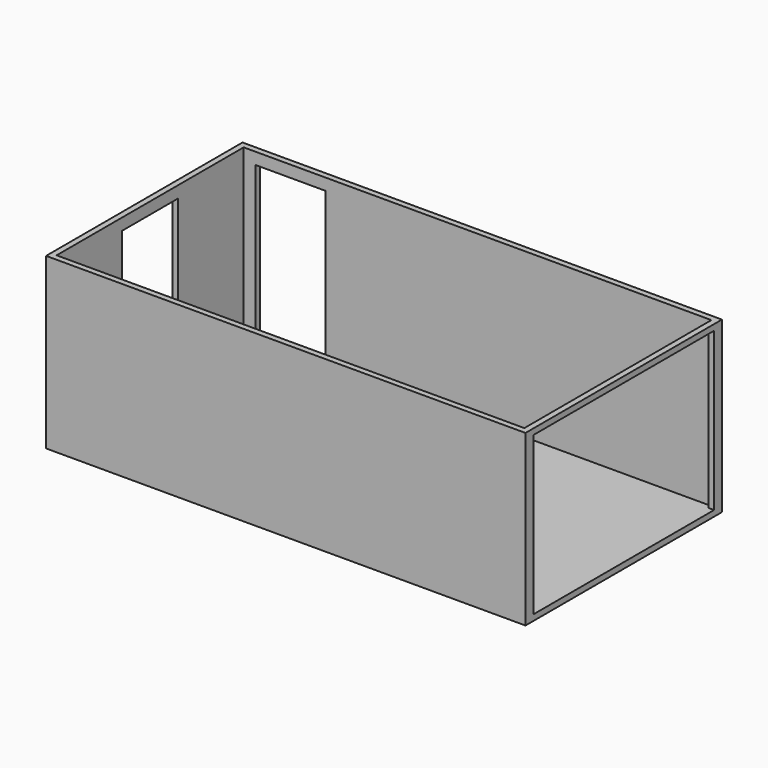
from build123d import *

# Parameters (mm, degrees)
F0_W     = 6248.4
F0_H     = 3200.4
F1_DEPTH = 2209.8
F2_T     = -76.2
F3_W     = 914.4
F3_H     = 1981.2
F4_DEPTH = 76.2
F5_W     = 2946.4
F5_H     = 2057.4
F6_DEPTH = 76.2
F7_W     = 914.4
F7_H     = 1981.2
F8_DEPTH = 76.2


with BuildPart() as f1:
    # F0 (on Top) → F1 (new body)
    with BuildSketch(Plane.XY):
        Rectangle(F0_W, F0_H)
    extrude(amount=F1_DEPTH)

    # F2
    f2_openings = [f1.faces().sort_by_distance(p)[0] for p in [
        (0, 0, 2209.8),
    ]]
    offset(amount=F2_T, openings=f2_openings)

    # F3 (on face) → F4 (cut, through all)
    with BuildSketch(Plane.YZ.offset(-3048)):
        with Locations((0, 1066.8)):
            Rectangle(F3_W, F3_H)
    extrude(amount=-F4_DEPTH, mode=Mode.SUBTRACT)

    # F5 (on face) → F6 (cut, through all)
    with BuildSketch(Plane.YZ.offset(3124.2)):
        with Locations((0, 1104.9)):
            Rectangle(F5_W, F5_H)
    extrude(amount=-F6_DEPTH, mode=Mode.SUBTRACT)

    # F7 (on face) → F8 (cut, through all)
    with BuildSketch(Plane.XZ.offset(-1524)):
        with Locations((-2438.4, 1066.8)):
            Rectangle(F7_W, F7_H)
    extrude(amount=-F8_DEPTH, mode=Mode.SUBTRACT)


solid = f1.part
